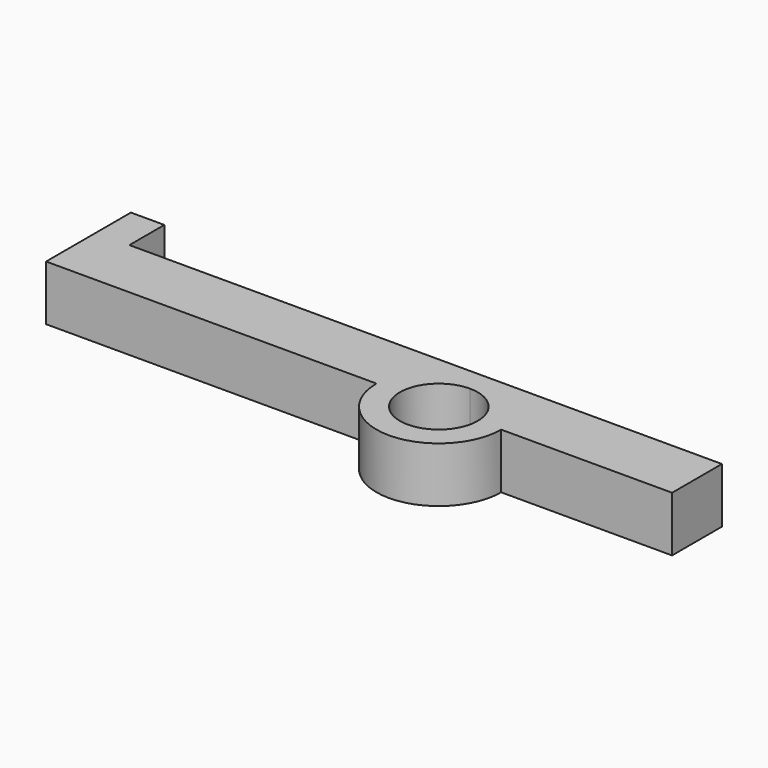
from build123d import *

# Parameters (mm, degrees)
F1_DEPTH = 6.6
F2_W     = 12.675607577
F2_H     = 6.6
F3_DEPTH = 4


with BuildPart() as f1:
    # F0 (on Top) → F1 (new body)
    with BuildSketch(Plane.XY):
        with BuildLine():
            Line((7.45, 0), (4.65, 0))
            ThreePointArc((4.65, 0), (-3.2880465325, -3.2880465325), (0, 4.65))
            Line((0, 4.65), (0, 7.45))
            ThreePointArc((0, 7.45), (-5.2679455198, 5.2679455198), (-7.45, 0))
            ThreePointArc((-7.45, 0), (0, -7.45), (7.45, 0))
        make_face()
        with BuildLine():
            ThreePointArc((0, 4.65), (3.2880465325, 3.2880465325), (4.65, 0))
            Line((4.65, 0), (7.45, 0))
            ThreePointArc((7.45, 0), (5.2679455198, 5.2679455198), (0, 7.45))
            Line((0, 7.45), (0, 4.65))
        make_face()
        with BuildLine():
            ThreePointArc((0, 7.45), (5.2679455198, 5.2679455198), (7.45, 0))
            Line((7.45, 0), (27.8879404068, 0))
            Line((27.8879404068, 0), (27.8879404068, 7.45))
            Line((27.8879404068, 7.45), (0, 7.45))
        make_face()
        with BuildLine():
            ThreePointArc((-7.45, 0), (-5.2679455198, 5.2679455198), (0, 7.45))
            Line((0, 7.45), (-42.95, 7.45))
            Line((-42.95, 7.45), (-42.95, 0))
            Line((-42.95, 0), (-7.45, 0))
        make_face()
    extrude(amount=F1_DEPTH)

    # F2 (on face) → F3 (join)
    with BuildSketch(Plane(origin=(-42.95, 0, 0), x_dir=(0, -1, 0), z_dir=(-1, 0, 0))):
        with Locations((-6.3378037885, 3.3)):
            Rectangle(F2_W, F2_H)
    extrude(amount=F3_DEPTH)


solid = f1.part
